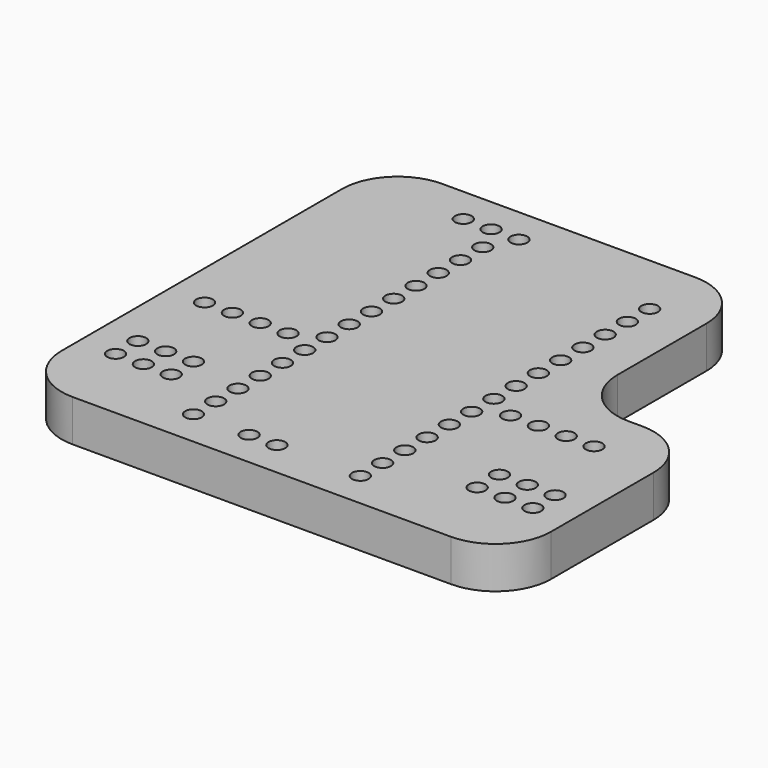
from build123d import *

# Parameters (mm, degrees)
F0_R     = 0.762
F1_DEPTH = 3.81


with BuildPart() as f1:
    # F0 (on Top) → F1 (new body)
    with BuildSketch(Plane.XY):
        with BuildLine():
            Line((7.112, 22.352), (-16.002, 22.352))
            ThreePointArc((-16.002, 22.352), (-19.594102, 20.864102), (-21.082, 17.272))
            Line((-21.082, 17.272), (-21.082, -14.732))
            ThreePointArc((-21.082, -14.732), (-19.594102, -18.324102), (-16.002, -19.812))
            Line((-16.002, -19.812), (18.542, -19.812))
            ThreePointArc((18.542, -19.812), (22.134102, -18.324102), (23.622, -14.732))
            Line((23.622, -14.732), (23.622, -3.048))
            ThreePointArc((23.622, -3.048), (22.134102, 0.544102), (18.542, 2.032))
            Line((18.542, 2.032), (17.272, 2.032))
            ThreePointArc((17.272, 2.032), (13.679898, 3.519898), (12.192, 7.112))
            Line((12.192, 7.112), (12.192, 17.272))
            ThreePointArc((12.192, 17.272), (10.704102, 20.864102), (7.112, 22.352))
        make_face()
        with Locations((-17.78, -12.7)):
            Circle(F0_R, mode=Mode.SUBTRACT)
        with Locations((-17.78, -10.16)):
            Circle(F0_R, mode=Mode.SUBTRACT)
        with Locations((-15.24, -12.7)):
            Circle(F0_R, mode=Mode.SUBTRACT)
        with Locations((-12.7, -12.7)):
            Circle(F0_R, mode=Mode.SUBTRACT)
        with Locations((-15.24, -10.16)):
            Circle(F0_R, mode=Mode.SUBTRACT)
        with Locations((-12.7, -10.16)):
            Circle(F0_R, mode=Mode.SUBTRACT)
        with Locations((-7.62, -16.51)):
            Circle(F0_R, mode=Mode.SUBTRACT)
        with Locations((-2.54, -16.51)):
            Circle(F0_R, mode=Mode.SUBTRACT)
        with Locations((0, -16.51)):
            Circle(F0_R, mode=Mode.SUBTRACT)
        with Locations((-7.62, -13.97)):
            Circle(F0_R, mode=Mode.SUBTRACT)
        with Locations((-7.62, -11.43)):
            Circle(F0_R, mode=Mode.SUBTRACT)
        with Locations((-17.78, -2.54)):
            Circle(F0_R, mode=Mode.SUBTRACT)
        with Locations((-15.24, -2.54)):
            Circle(F0_R, mode=Mode.SUBTRACT)
        with Locations((-12.7, -2.54)):
            Circle(F0_R, mode=Mode.SUBTRACT)
        with Locations((-10.16, -2.54)):
            Circle(F0_R, mode=Mode.SUBTRACT)
        with Locations((-7.62, -8.89)):
            Circle(F0_R, mode=Mode.SUBTRACT)
        with Locations((-7.62, -6.35)):
            Circle(F0_R, mode=Mode.SUBTRACT)
        with Locations((-7.62, -3.81)):
            Circle(F0_R, mode=Mode.SUBTRACT)
        with Locations((-7.62, -1.27)):
            Circle(F0_R, mode=Mode.SUBTRACT)
        with Locations((7.62, -16.51)):
            Circle(F0_R, mode=Mode.SUBTRACT)
        with Locations((7.62, -13.97)):
            Circle(F0_R, mode=Mode.SUBTRACT)
        with Locations((7.62, -11.43)):
            Circle(F0_R, mode=Mode.SUBTRACT)
        with Locations((15.24, -12.7)):
            Circle(F0_R, mode=Mode.SUBTRACT)
        with Locations((17.78, -12.7)):
            Circle(F0_R, mode=Mode.SUBTRACT)
        with Locations((15.24, -10.16)):
            Circle(F0_R, mode=Mode.SUBTRACT)
        with Locations((17.78, -10.16)):
            Circle(F0_R, mode=Mode.SUBTRACT)
        with Locations((20.32, -12.7)):
            Circle(F0_R, mode=Mode.SUBTRACT)
        with Locations((20.32, -10.16)):
            Circle(F0_R, mode=Mode.SUBTRACT)
        with Locations((7.62, -8.89)):
            Circle(F0_R, mode=Mode.SUBTRACT)
        with Locations((7.62, -6.35)):
            Circle(F0_R, mode=Mode.SUBTRACT)
        with Locations((7.62, -3.81)):
            Circle(F0_R, mode=Mode.SUBTRACT)
        with Locations((10.16, -2.54)):
            Circle(F0_R, mode=Mode.SUBTRACT)
        with Locations((7.62, -1.27)):
            Circle(F0_R, mode=Mode.SUBTRACT)
        with Locations((12.7, -2.54)):
            Circle(F0_R, mode=Mode.SUBTRACT)
        with Locations((15.24, -2.54)):
            Circle(F0_R, mode=Mode.SUBTRACT)
        with Locations((17.78, -2.54)):
            Circle(F0_R, mode=Mode.SUBTRACT)
        with Locations((-7.62, 1.27)):
            Circle(F0_R, mode=Mode.SUBTRACT)
        with Locations((-7.62, 3.81)):
            Circle(F0_R, mode=Mode.SUBTRACT)
        with Locations((-7.62, 6.35)):
            Circle(F0_R, mode=Mode.SUBTRACT)
        with Locations((-7.62, 8.89)):
            Circle(F0_R, mode=Mode.SUBTRACT)
        with Locations((-7.62, 11.43)):
            Circle(F0_R, mode=Mode.SUBTRACT)
        with Locations((-11.43, 19.05)):
            Circle(F0_R, mode=Mode.SUBTRACT)
        with Locations((-7.62, 13.97)):
            Circle(F0_R, mode=Mode.SUBTRACT)
        with Locations((-7.62, 16.51)):
            Circle(F0_R, mode=Mode.SUBTRACT)
        with Locations((-8.89, 19.05)):
            Circle(F0_R, mode=Mode.SUBTRACT)
        with Locations((-6.35, 19.05)):
            Circle(F0_R, mode=Mode.SUBTRACT)
        with Locations((7.62, 1.27)):
            Circle(F0_R, mode=Mode.SUBTRACT)
        with Locations((7.62, 3.81)):
            Circle(F0_R, mode=Mode.SUBTRACT)
        with Locations((7.62, 6.35)):
            Circle(F0_R, mode=Mode.SUBTRACT)
        with Locations((7.62, 8.89)):
            Circle(F0_R, mode=Mode.SUBTRACT)
        with Locations((7.62, 11.43)):
            Circle(F0_R, mode=Mode.SUBTRACT)
        with Locations((7.62, 13.97)):
            Circle(F0_R, mode=Mode.SUBTRACT)
        with Locations((7.62, 16.51)):
            Circle(F0_R, mode=Mode.SUBTRACT)
    extrude(amount=F1_DEPTH)


solid = f1.part
